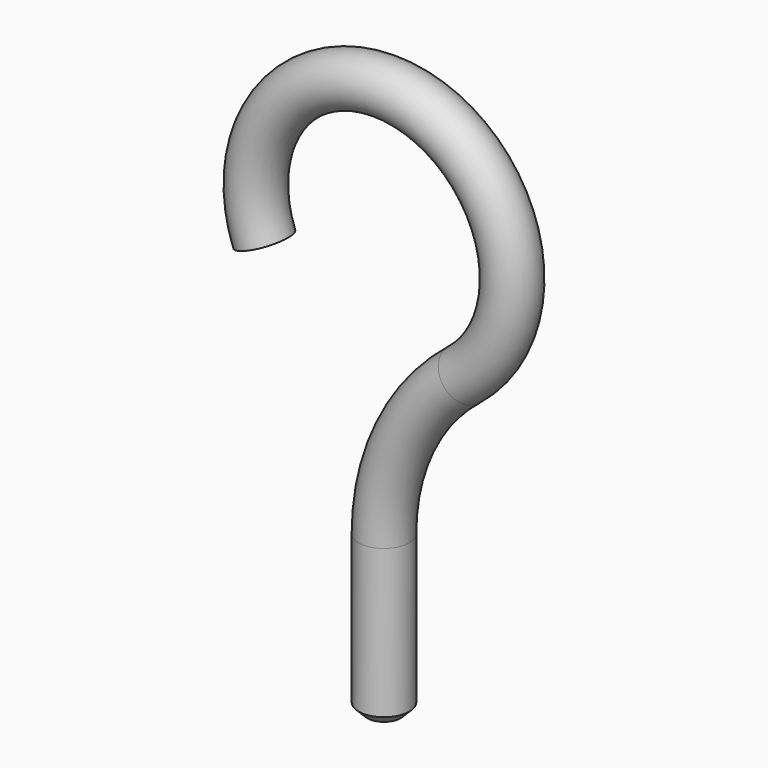
from build123d import *

# Parameters (mm, degrees)
F1_R    = 0.59563
F3_SIZE = 0.2032


with BuildPart() as f2:
    # F2: sweep along a path in F0
    with BuildLine(Plane.XZ) as f2_path:
        Line((0, 0), (0, 3.706446458))
        ThreePointArc((0, 3.706446458), (0.4956320598, 5.87772172), (1.8843424051, 7.618862432))
        ThreePointArc((1.8843424051, 7.618862432), (0.7938071461, 12.8987014958), (-2.8221761363, 8.8998725932))
    # F1 (on Top) → F2 (sweep)
    with BuildSketch(Plane.XY):
        Circle(F1_R)
    sweep(path=f2_path.line)

    # F3
    f3_edges = [f2.edges().sort_by_distance(p)[0] for p in [
        (-0.59563, 0, 0),
    ]]
    chamfer(f3_edges, length=F3_SIZE)


solid = f2.part
